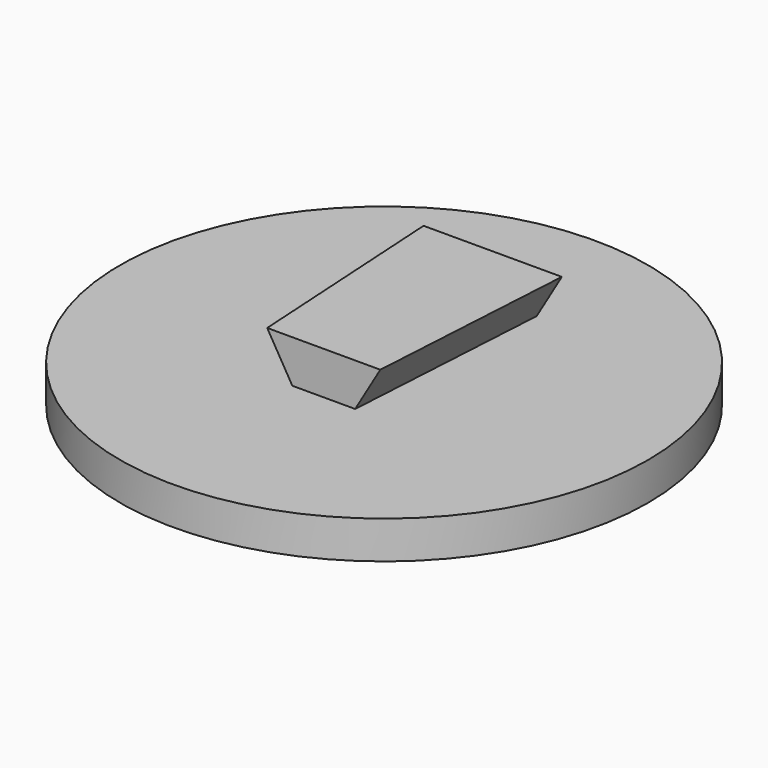
from build123d import *

# Parameters (mm, degrees)
F0_R     = 10.5
F1_DEPTH = 1.5


with BuildPart() as f1:
    # F0 (on Top) → F1 (new body)
    with BuildSketch(Plane.XY):
        Circle(F0_R)
    extrude(amount=-F1_DEPTH)

    # F5 (on offset) → F6 section 0
    with BuildSketch(Plane.XZ.offset(-5.4)):
        Polygon((-1.75, 0), (1.75, 0), (2.75, 1.7), (-2.75, 1.7), align=None)
    # F3 (on offset) → F6 section 1
    with BuildSketch(Plane.XZ.offset(3)):
        Polygon((-1.25, 0), (1.25, 0), (2.25, 1.7), (-2.25, 1.7), align=None)
    loft()


solid = f1.part
